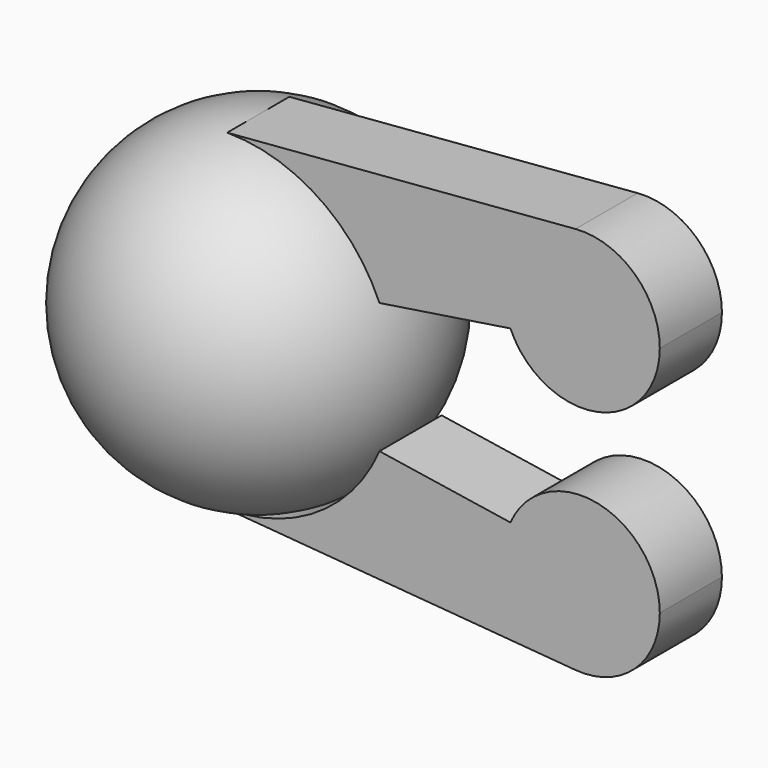
from build123d import *

# Parameters (mm, degrees)
F1_DEPTH = 12.7


with BuildPart() as f1:
    # F0 (on Front) → F1 (new body, symmetric)
    with BuildSketch(Plane.XZ):
        with BuildLine():
            Line((92.644235, -27.94), (49.808997, -21.341496))
            ThreePointArc((49.808997, -21.341496), (29.832294, -45.237483), (0, -54.188519))
            Line((0, -54.188519), (113.94033, -63.5))
            ThreePointArc((113.94033, -63.5), (94.152333, -51.193713), (92.644235, -27.94))
        make_face()
        with BuildLine():
            ThreePointArc((141.500757, -38.1), (121.204762, -13.149122), (92.644235, -27.94))
            ThreePointArc((92.644235, -27.94), (94.152333, -51.193713), (113.94033, -63.5))
            ThreePointArc((113.94033, -63.5), (133.286994, -56.839911), (141.500757, -38.1))
        make_face()
        with BuildLine():
            ThreePointArc((113.94033, 63.5), (94.152333, 51.193713), (92.644235, 27.94))
            ThreePointArc((92.644235, 27.94), (121.204762, 13.149122), (141.500757, 38.1))
            ThreePointArc((141.500757, 38.1), (133.286994, 56.839911), (113.94033, 63.5))
        make_face()
        with BuildLine():
            ThreePointArc((0, 54.188519), (29.832294, 45.237483), (49.808997, 21.341496))
            Line((49.808997, 21.341496), (92.644235, 27.94))
            ThreePointArc((92.644235, 27.94), (94.152333, 51.193713), (113.94033, 63.5))
            Line((113.94033, 63.5), (0, 54.188519))
        make_face()
    extrude(amount=F1_DEPTH, both=True)


with BuildPart() as f2:
    # F0 (on Front) → F2 (revolve)
    with BuildSketch(Plane.XZ):
        with BuildLine():
            Line((0, 46.568519), (0, 54.188519))
            ThreePointArc((0, 54.188519), (-54.188519, 0), (0, -54.188519))
            Line((0, -54.188519), (0, -46.568519))
            ThreePointArc((0, -46.568519), (-46.568519, 0), (0, 46.568519))
        make_face()
    revolve(axis=Axis((0, 0, 0), (0, 0, 1)))


solid = Compound([f1.part, f2.part])
